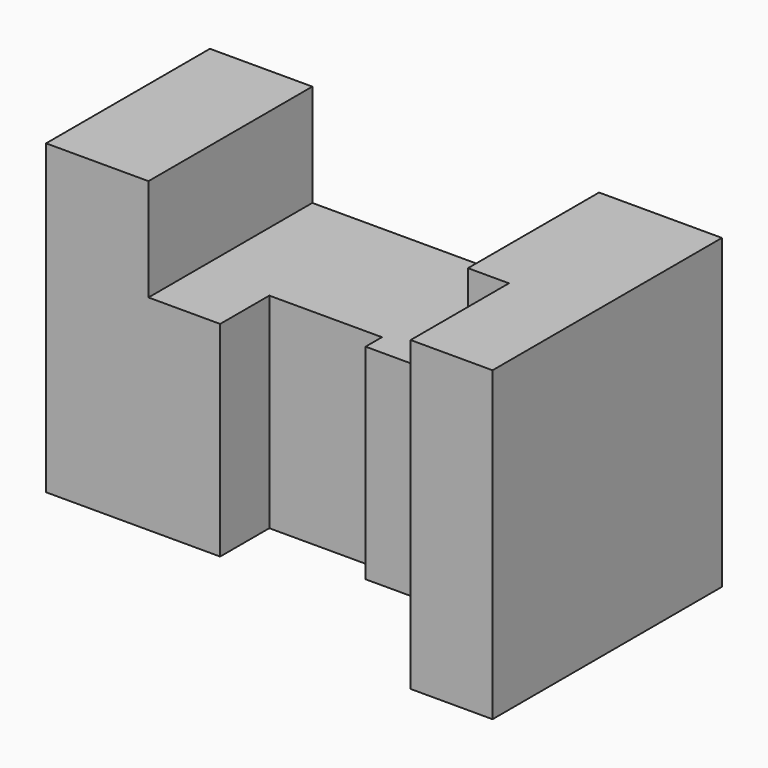
from build123d import *

# Parameters (mm, degrees)
F0_W     = 70
F0_H     = 75
F1_DEPTH = 125
F3_DEPTH = 75.001
F4_W     = 70
F4_H     = 25
F5_DEPTH = 50.001


with BuildPart() as f1:
    # F0 (on Right) → F1 (new body)
    with BuildSketch(Plane.YZ):
        with Locations((35, 37.5)):
            Rectangle(F0_W, F0_H)
    extrude(amount=F1_DEPTH)

    # F2 (on face) → F3 (cut, through all)
    with BuildSketch(Plane.XY.offset(75)):
        Polygon((42.5, 20), (0, 20), (0, 0), (105, 0), (105, 30), (70, 30), (70, 35), (42.5, 35), align=None)
    extrude(amount=-F3_DEPTH, mode=Mode.SUBTRACT)

    # F4 (on face) → F5 (cut, through all)
    with BuildSketch(Plane.XZ.offset(-20)):
        with Locations((60, 62.5)):
            Rectangle(F4_W, F4_H)
    extrude(amount=-F5_DEPTH, mode=Mode.SUBTRACT)


solid = f1.part
